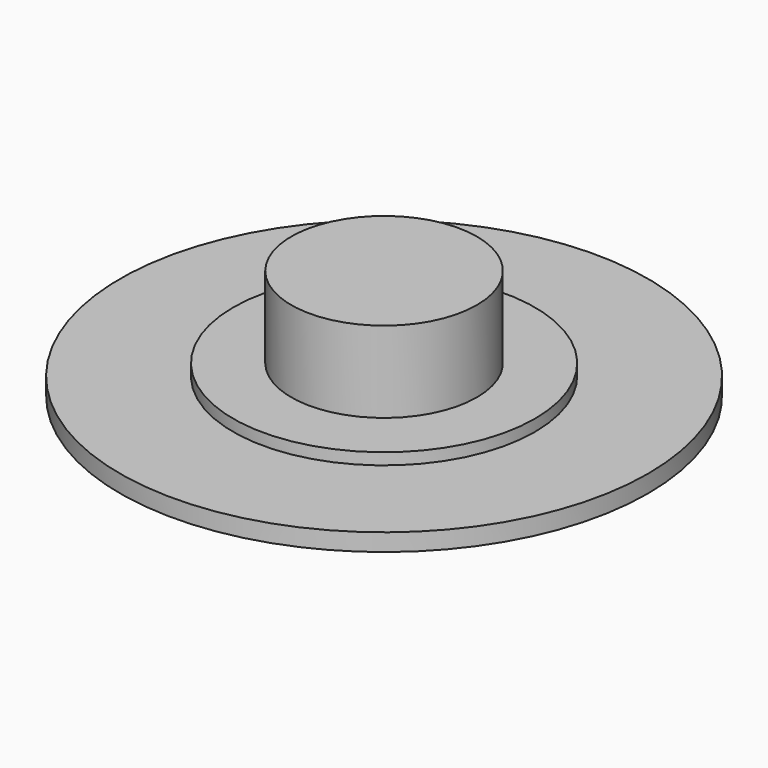
from build123d import *

# Parameters (mm, degrees)
F0_R     = 11.375
F0_R_2   = 6.5
F1_DEPTH = 0.75
F0_R_3   = 4
F2_DEPTH = 1.25
F3_DEPTH = 4.75


with BuildPart() as f1:
    # F0 (on Top) → F1 (new body)
    with BuildSketch(Plane.XY):
        Circle(F0_R)
        Circle(F0_R_2, mode=Mode.SUBTRACT)
    extrude(amount=F1_DEPTH)

    # F0 (on Top) → F2 (join)
    with BuildSketch(Plane.XY):
        Circle(F0_R_2)
        Circle(F0_R_3, mode=Mode.SUBTRACT)
    extrude(amount=F2_DEPTH)

    # F0 (on Top) → F3 (join)
    with BuildSketch(Plane.XY):
        Circle(F0_R_3)
    extrude(amount=F3_DEPTH)


solid = f1.part
